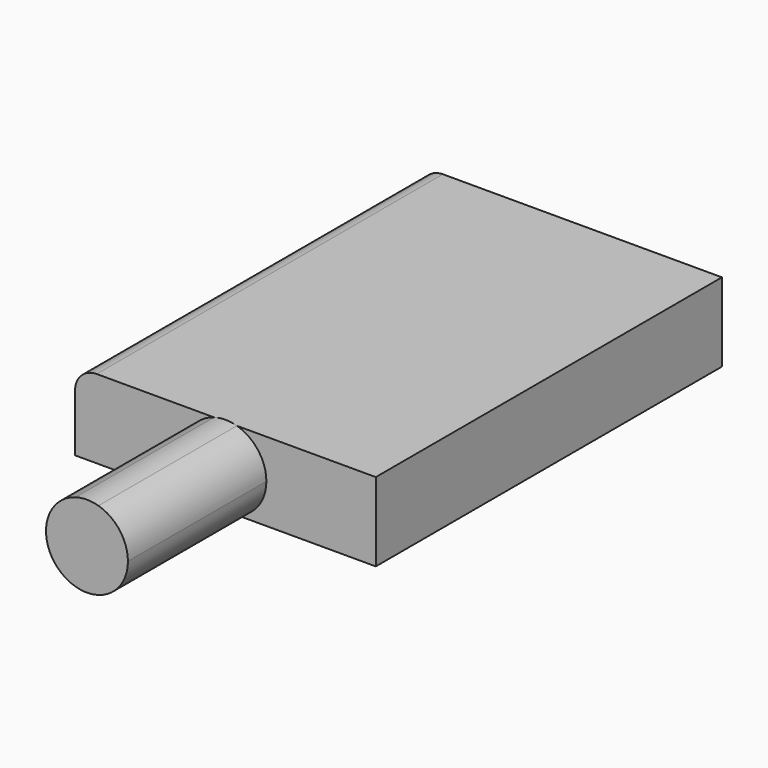
from build123d import *

# Parameters (mm, degrees)
F1_DEPTH = 127
F2_R     = 7.6486449209
F3_DEPTH = 50.8


with BuildPart() as f1:
    # F0 (on Front) → F1 (new body)
    with BuildSketch(Plane.XZ):
        with BuildLine():
            Line((-44.1380739212, -11.5414038301), (44.1380739212, -11.5414038301))
            Line((44.1380739212, -11.5414038301), (44.1380739212, 11.5414038301))
            Line((44.1380739212, 11.5414038301), (-37.7880739212, 11.5414038301))
            ThreePointArc((-37.7880739212, 11.5414038301), (-42.2782019817, 9.6815318906), (-44.1380739212, 5.1914038301))
            Line((-44.1380739212, 5.1914038301), (-44.1380739212, -11.5414038301))
        make_face()
    extrude(amount=-F1_DEPTH)

    # F2 (on face) → F3 (join)
    with BuildSketch(Plane.XZ):
        with BuildLine():
            ThreePointArc((3.3632056701, -11.5414038301), (9.616281735, -7.2140335694), (12.0214456181, 0))
            ThreePointArc((12.0214456181, 0), (9.616281735, 7.2140335694), (3.3632056701, 11.5414038301))
            Line((3.3632056701, 11.5414038301), (-3.3632056701, 11.5414038301))
            ThreePointArc((-3.3632056701, 11.5414038301), (-12.0214456181, 0), (-3.3632056701, -11.5414038301))
            Line((-3.3632056701, -11.5414038301), (3.3632056701, -11.5414038301))
        make_face()
        Circle(F2_R, mode=Mode.SUBTRACT)
        Circle(F2_R)
        with BuildLine():
            Line((-3.3632056701, 11.5414038301), (3.3632056701, 11.5414038301))
            ThreePointArc((3.3632056701, 11.5414038301), (0, 12.0214456181), (-3.3632056701, 11.5414038301))
        make_face()
        with BuildLine():
            ThreePointArc((-3.3632056701, -11.5414038301), (0, -12.0214456181), (3.3632056701, -11.5414038301))
            Line((3.3632056701, -11.5414038301), (-3.3632056701, -11.5414038301))
        make_face()
    extrude(amount=F3_DEPTH)


solid = f1.part
